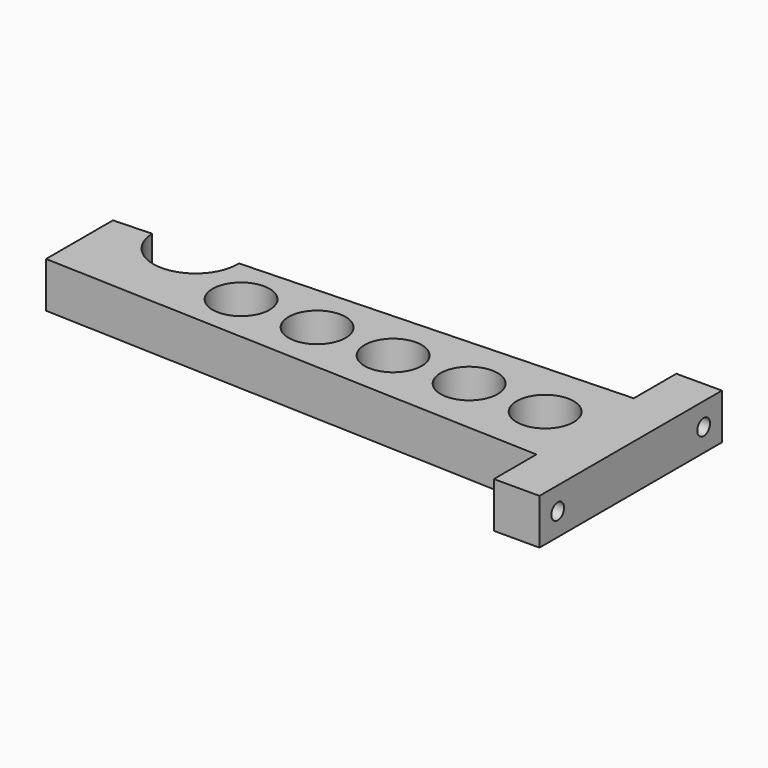
from build123d import *

# Parameters (mm, degrees)
F1_DEPTH  = 12
F2_R      = 11.1
F3_DEPTH  = 12.001
F5_R      = 2.1
F6_DEPTH  = 12.001
F7_R      = 4
F8_DEPTH  = 3
F9_R      = 4
F10_DEPTH = 3
F11_R     = 7.5
F12_DEPTH = 12.001


with BuildPart() as f1:
    # F0 (on Top) → F1 (new body)
    with BuildSketch(Plane.XY):
        Polygon((60.5, -30), (72.5, -30), (72.5, 30), (60.5, 30), (60.5, 16), (60.5, -16), align=None)
        Polygon((-72.5, -11), (60.5, -16), (60.5, 16), (-72.5, 11), align=None)
    extrude(amount=F1_DEPTH)

    # F2 (on face) → F3 (cut, through all)
    with BuildSketch(Plane.XY.offset(12)):
        with Locations((-51.4, 11.793233)):
            Circle(F2_R)
    extrude(amount=-F3_DEPTH, mode=Mode.SUBTRACT)

    # F5 (on offset) → F6 (cut, through all)
    with BuildSketch(Plane.YZ.offset(60.5)):
        with Locations((24, 6)):
            Circle(F5_R)
        with Locations((-24, 6)):
            Circle(F5_R)
    extrude(amount=F6_DEPTH, mode=Mode.SUBTRACT)

    # F7 (on face) → F8 (cut)
    with BuildSketch(Plane(origin=(60.5, 0, 0), x_dir=(0, -1, 0), z_dir=(-1, 0, 0))):
        with Locations((-24, 6)):
            Circle(F7_R)
    extrude(amount=-F8_DEPTH, mode=Mode.SUBTRACT)

    # F9 (on face) → F10 (cut)
    with BuildSketch(Plane(origin=(60.5, 0, 0), x_dir=(0, -1, 0), z_dir=(-1, 0, 0))):
        with Locations((24, 6)):
            Circle(F9_R)
    extrude(amount=-F10_DEPTH, mode=Mode.SUBTRACT)

    # F11 (on face) → F12 (cut, through all)
    with BuildSketch(Plane.XY.offset(12)):
        with Locations((-30, 0)):
            Circle(F11_R)
        with Locations((-10, 0)):
            Circle(F11_R)
        with Locations((10, 0)):
            Circle(F11_R)
        with Locations((30, 0)):
            Circle(F11_R)
        with Locations((50, 0)):
            Circle(F11_R)
    extrude(amount=-F12_DEPTH, mode=Mode.SUBTRACT)


solid = f1.part
